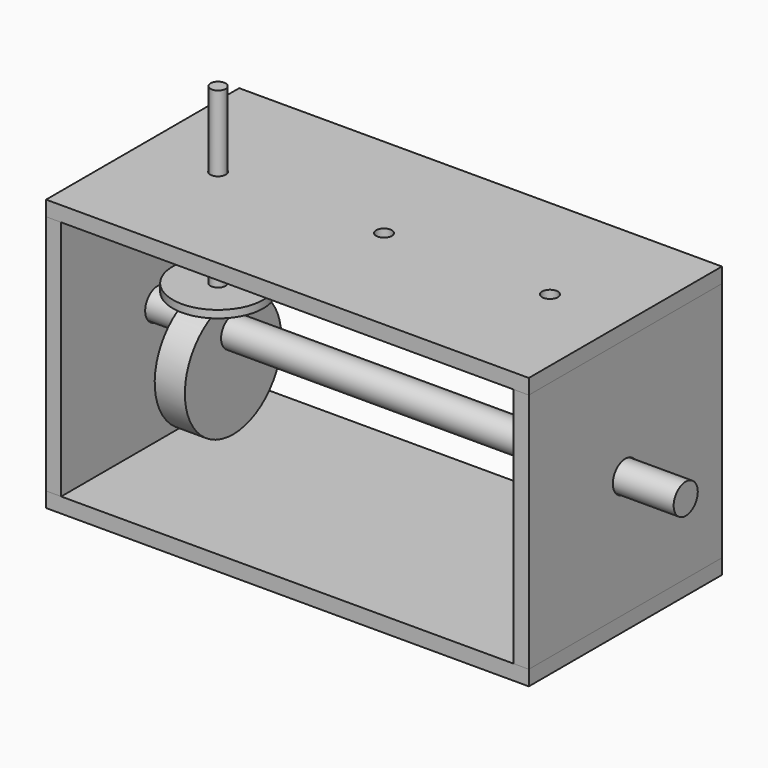
from build123d import *

# Parameters (mm, degrees)
F2_DEPTH      = 50.8
F3_DEPTH      = 50.8
F3_DEPTH_BACK = 50.8
F1_W          = 12.7
F1_H          = 25.4
F5_R          = 6.604
F5_R_2        = 6.35
F6_DEPTH      = 203.201
F7_DEPTH      = 203.2
F7_DEPTH_BACK = 25.4
F12_D         = 6.604
F10_R         = 3.175
F13_DEPTH     = 76.2
F10_R_2       = 19.05
F14_DEPTH     = 3.175


with BuildPart() as f2:
    # F1 (on Front) → F2 (new body, symmetric)
    with BuildSketch(Plane.XZ):
        Polygon((-101.6, 114.3), (-101.6, 107.95), (-95.25, 107.95), (95.25, 107.95), (101.6, 107.95), (101.6, 114.3), align=None)
    extrude(amount=F2_DEPTH, both=True)

    # F12 (through all)
    with Locations(Plane.XY.offset(114.3)):
        with Locations((-69.85, 0), (0, 0), (69.85, 0)):
            Hole(F12_D / 2)


with BuildPart() as f2b:
    # F1 (on Front) → F2, piece 2 (new body, symmetric)
    with BuildSketch(Plane.XZ):
        Polygon((-101.6, 6.35), (-101.6, 0), (101.6, 0), (101.6, 6.35), (95.25, 6.35), (-95.25, 6.35), align=None)
    extrude(amount=F2_DEPTH, both=True)


with BuildPart() as f3:
    # F1 (on Front) → F3 (new body, two sides)
    with BuildSketch(Plane.XZ) as f3_sk:
        Polygon((-101.6, 107.95), (-101.6, 6.35), (-95.25, 6.35), (-95.25, 57.15), (-95.25, 107.95), align=None)
    extrude(amount=F3_DEPTH)
    extrude(f3_sk.sketch, amount=-F3_DEPTH_BACK)


with BuildPart() as f3b:
    # F1 (on Front) → F3, piece 2 (new body, two sides)
    with BuildSketch(Plane.XZ) as f3_2_sk:
        Polygon((95.25, 6.35), (101.6, 6.35), (101.6, 107.95), (95.25, 107.95), (95.25, 57.15), align=None)
    extrude(amount=F3_DEPTH)
    extrude(f3_2_sk.sketch, amount=-F3_DEPTH_BACK)


with BuildPart() as f4:
    # F1 (on Front) → F4 (revolve)
    with BuildSketch(Plane.XZ):
        with Locations((-69.85, 31.75)):
            Rectangle(F1_W, F1_H)
    revolve(axis=Axis((-69.85, 0, 44.45), (1, 0, 0)))


with BuildPart() as f6_tool:
    # F5 (on face) → F6 (new body, through all)
    with BuildSketch(Plane.YZ.offset(101.6)):
        with Locations((0, 57.15)):
            Circle(F5_R)
        with Locations((0, 57.15)):
            Circle(F5_R_2, mode=Mode.SUBTRACT)
        with Locations((0, 57.15)):
            Circle(F5_R_2)
    extrude(amount=-F6_DEPTH)


with BuildPart() as f3_1:
    add(f3.part)

    # F6: cut by f6_tool
    add(f6_tool.part, mode=Mode.SUBTRACT)


with BuildPart() as f3b_1:
    add(f3b.part)

    # F6: cut by f6_tool
    add(f6_tool.part, mode=Mode.SUBTRACT)


with BuildPart() as f7:
    # F5 (on face) → F7 (new body, two sides)
    with BuildSketch(Plane.YZ.offset(101.6)) as f7_sk:
        with Locations((0, 57.15)):
            Circle(F5_R_2)
    extrude(amount=-F7_DEPTH)
    extrude(f7_sk.sketch, amount=F7_DEPTH_BACK)


with BuildPart() as f4_1:
    add(f4.part)

    # F8: cut F7
    add(f7.part, mode=Mode.SUBTRACT)


with BuildPart() as f13:
    # F10 (on plane+point) → F13 (new body, through all)
    with BuildSketch(Plane.XY.offset(69.85)):
        with Locations((-69.85, 0)):
            Circle(F10_R)
    extrude(amount=F13_DEPTH)


with BuildPart() as f14:
    # F10 (on plane+point) → F14 (new body)
    with BuildSketch(Plane.XY.offset(69.85)):
        with Locations((-69.85, 0)):
            Circle(F10_R_2)
        with Locations((-69.85, 0)):
            Circle(F10_R, mode=Mode.SUBTRACT)
    extrude(amount=F14_DEPTH)


solid = Compound([f2.part, f2b.part, f3_1.part, f3b_1.part, f7.part, f4_1.part, f13.part, f14.part])
